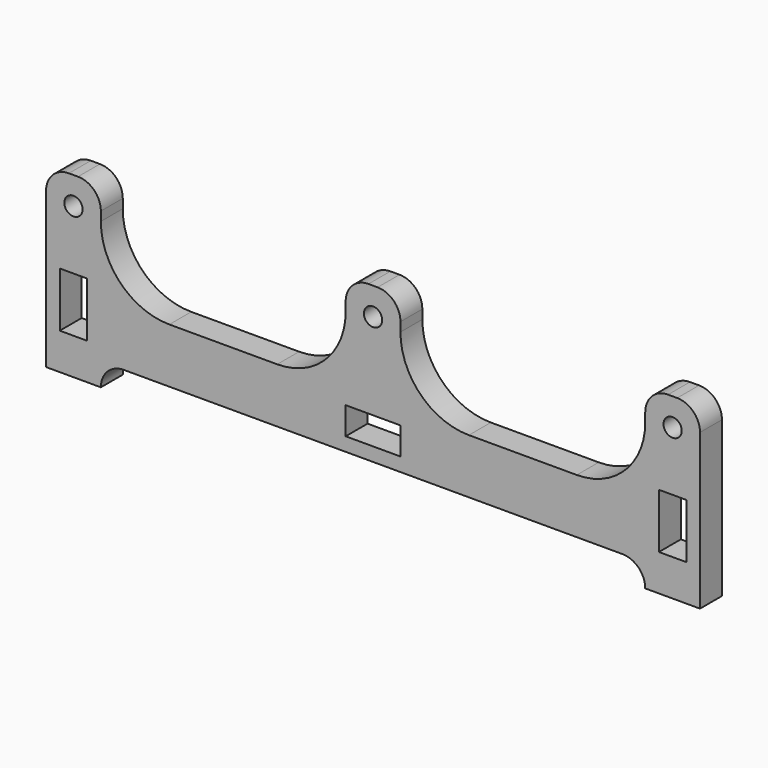
from build123d import *

# Parameters (mm, degrees)
F0_W     = 6
F0_H     = 12
F0_R     = 2
F1_DEPTH = 6


with BuildPart() as f1:
    # F0 (on Front) → F1 (new body)
    with BuildSketch(Plane.XZ):
        with BuildLine():
            Line((1, 39), (0, 39))
            Line((0, 39), (-1, 39))
            ThreePointArc((-1, 39), (-4.535534, 37.535534), (-6, 34))
            Line((-6, 34), (-6, 32))
            ThreePointArc((-6, 32), (-10.393398, 21.393398), (-21, 17))
            Line((-21, 17), (-44.63, 17))
            ThreePointArc((-44.63, 17), (-55.236602, 21.393398), (-59.63, 32))
            Line((-59.63, 32), (-59.63, 34))
            ThreePointArc((-59.63, 34), (-61.094466, 37.535534), (-64.63, 39))
            Line((-64.63, 39), (-66.63, 39))
            ThreePointArc((-66.63, 39), (-70.165534, 37.535534), (-71.63, 34))
            Line((-71.63, 34), (-71.63, 0))
            Line((-71.63, 0), (-59.63, 0))
            ThreePointArc((-59.63, 0), (-58.165534, 3.535534), (-54.63, 5))
            Line((-54.63, 5), (0, 5))
            Line((0, 5), (54.63, 5))
            ThreePointArc((54.63, 5), (58.165534, 3.535534), (59.63, 0))
            Line((59.63, 0), (71.63, 0))
            Line((71.63, 0), (71.63, 34))
            ThreePointArc((71.63, 34), (70.165534, 37.535534), (66.63, 39))
            Line((66.63, 39), (64.63, 39))
            ThreePointArc((64.63, 39), (61.094466, 37.535534), (59.63, 34))
            Line((59.63, 34), (59.63, 32))
            ThreePointArc((59.63, 32), (55.236602, 21.393398), (44.63, 17))
            Line((44.63, 17), (21, 17))
            ThreePointArc((21, 17), (10.393398, 21.393398), (6, 32))
            Line((6, 32), (6, 34))
            ThreePointArc((6, 34), (4.535534, 37.535534), (1, 39))
        make_face()
        with Locations((-65.63, 14)):
            Rectangle(F0_W, F0_H, mode=Mode.SUBTRACT)
        Polygon((-6, 14), (0, 14), (6, 14), (6, 8), (0, 8), (-6, 8), align=None, mode=Mode.SUBTRACT)
        with Locations((65.63, 14)):
            Rectangle(F0_W, F0_H, mode=Mode.SUBTRACT)
        with Locations((-65.63, 33)):
            Circle(F0_R, mode=Mode.SUBTRACT)
        with BuildLine():
            ThreePointArc((0, 31), (-2, 33), (0, 35))
            ThreePointArc((0, 35), (2, 33), (0, 31))
        make_face(mode=Mode.SUBTRACT)
        with Locations((65.63, 33)):
            Circle(F0_R, mode=Mode.SUBTRACT)
    extrude(amount=F1_DEPTH)


solid = f1.part
